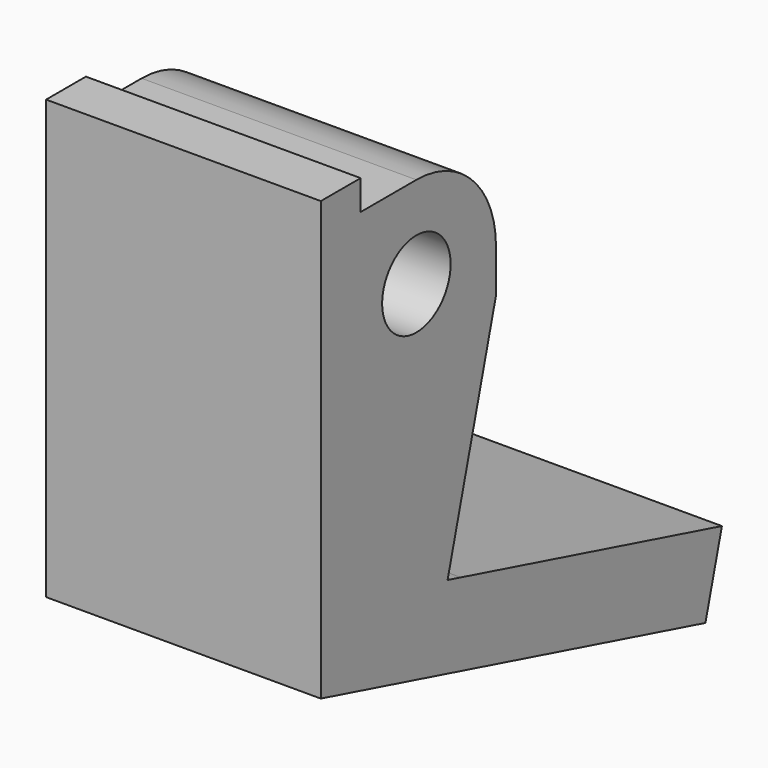
from build123d import *

# Parameters (mm, degrees)
CYLINDER_R           = 2.15
CYLINDER_DEPTH       = 50
CYLINDER_PITCH_ANGLE = 90
BOX002_W             = 14
BOX002_H             = 11
BOX002_DEPTH         = 20.5
CHAMFER_SIZE         = 4
FILLET001_R          = 5
BOX003_W             = 14
BOX003_H             = 25
BOX003_DEPTH         = 4
BOX003_ROLL_ANGLE    = -15
BOX004_W             = 14
BOX004_H             = 2.5
BOX004_DEPTH         = 5
POCKET006_DEPTH      = 15
SKETCH008_W          = 0.2
SKETCH008_H          = 34.34452
POCKET008_DEPTH      = 80


with BuildPart() as cylinder:
    # Cylinder → Cylinder (new body)
    with BuildSketch(Plane.XY):
        Circle(CYLINDER_R)
    extrude(amount=CYLINDER_DEPTH)


with BuildPart() as cylinder_1:
    # Cylinder pitch: moved
    add(cylinder.part.rotate(Axis((0, 0, 0), (0, 1, 0)), CYLINDER_PITCH_ANGLE))


with BuildPart() as cylinder_2:
    # Cylinder placement: moved
    add(cylinder_1.part.moved(Location((31, -6, 12.9))))


with BuildPart() as fillet001:
    # Box002 → Box002 (new body)
    with BuildSketch(Plane(origin=(52, -12, -3), x_dir=(1, 0, 0), z_dir=(0, 0, 1))):
        with Locations((7, 5.5)):
            Rectangle(BOX002_W, BOX002_H)
    extrude(amount=BOX002_DEPTH)

    # Chamfer
    chamfer_edges = [fillet001.edges().sort_by_distance(p)[0] for p in [
        (59, -1, -3),
    ]]
    chamfer(chamfer_edges, length=CHAMFER_SIZE)

    # Fillet001
    fillet001_edges = [fillet001.edges().sort_by_distance(p)[0] for p in [
        (59, -1, 17.5),
    ]]
    fillet(fillet001_edges, radius=FILLET001_R)


with BuildPart() as cube002:
    # Box003 → Box003 (new body)
    with BuildSketch(Plane.XY):
        with Locations((7, 12.5)):
            Rectangle(BOX003_W, BOX003_H)
    extrude(amount=BOX003_DEPTH)


with BuildPart() as cube002_1:
    # Box003 roll: moved
    add(cube002.part.rotate(Axis((0, 0, 0), (1, 0, 0)), BOX003_ROLL_ANGLE))


with BuildPart() as cube002_2:
    # Box003 placement: moved
    add(cube002_1.part.moved(Location((52, -12, -3))))


with BuildPart() as pocket008:
    # Box004 → Box004 (new body)
    with BuildSketch(Plane(origin=(52, -12, 14), x_dir=(1, 0, 0), z_dir=(0, 0, 1))):
        with Locations((7, 1.25)):
            Rectangle(BOX004_W, BOX004_H)
    extrude(amount=BOX004_DEPTH)

    # Fusion: union Fillet001, Cube002
    add(fillet001.part)
    add(cube002_2.part)

    # Cut001: cut Cylinder
    add(cylinder_2.part, mode=Mode.SUBTRACT)

    # Sketch006 → Pocket006 (cut)
    with BuildSketch(Plane.YZ.offset(66)):
        Polygon((13.183422, -5.606773), (-4.041064, -0.991486), (-0.407217, 12.570217), align=None)
    extrude(amount=-POCKET006_DEPTH, mode=Mode.SUBTRACT)

    # Sketch008 → Pocket008 (cut)
    with BuildSketch(Plane.XZ.offset(12)):
        with Locations((52.1, 9.746044)):
            Rectangle(SKETCH008_W, SKETCH008_H)
    extrude(amount=-POCKET008_DEPTH, mode=Mode.SUBTRACT)


solid = pocket008.part
